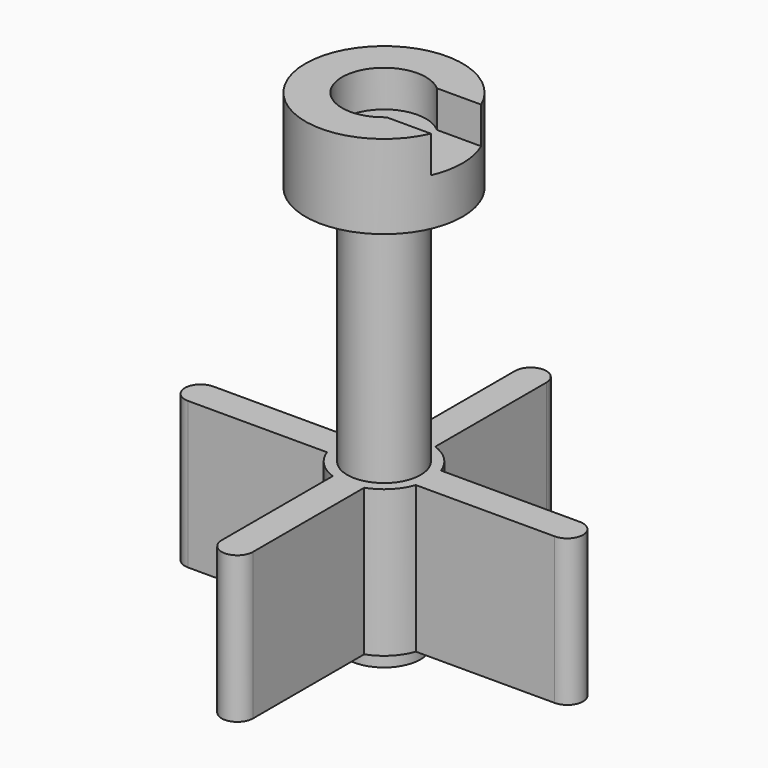
from build123d import *

# Parameters (mm, degrees)
SKETCH003_R        = 4.5
PAD001_DEPTH       = 14
POLARPATTERN_COUNT = 4
SKETCH004_R        = 3.5
PAD002_DEPTH       = 1.5
SKETCH005_R        = 3.5
PAD003_DEPTH       = 23
SKETCH011_R        = 7.5
PAD007_DEPTH       = 8
POCKET004_DEPTH    = 3.5


with BuildPart() as part:
    # Sketch003 → Pad001 (new body)
    with BuildSketch(Plane.XY):
        Circle(SKETCH003_R)
        with BuildLine():
            Line((-1.5, 17.5), (-1.5, -17.5))
            ThreePointArc((-1.5, -17.5), (0, -19), (1.5, -17.5))
            Line((1.5, -17.5), (1.5, 17.5))
            ThreePointArc((1.5, 17.5), (0, 19), (-1.5, 17.5))
        make_face()
    pad001 = extrude(amount=PAD001_DEPTH)

    # PolarPattern: Pad001 ×4 about axis
    polarpattern_axis = Axis((0, 0, 0), (0, 0, 1))
    for i in range(1, POLARPATTERN_COUNT):
        add(pad001.rotate(polarpattern_axis, i * 360 / POLARPATTERN_COUNT))

    # Sketch004 (on Face17 of MultiTransform) → Pad002 (join)
    with BuildSketch(Plane(origin=(0, 0, 0), x_dir=(1, 0, 0), z_dir=(0, 0, -1))):
        Circle(SKETCH004_R)
    extrude(amount=PAD002_DEPTH)

    # Sketch005 (on Face4 of Pad002) → Pad003 (join)
    with BuildSketch(Plane.XY.offset(14)):
        Circle(SKETCH005_R)
    extrude(amount=PAD003_DEPTH)

    # Sketch011 (on Face22 of Pad003) → Pad007 (join)
    with BuildSketch(Plane.XY.offset(37)):
        Circle(SKETCH011_R)
    extrude(amount=PAD007_DEPTH)

    # Sketch012 (on Face24 of Pad007) → Pocket004 (cut)
    with BuildSketch(Plane.XY.offset(45)):
        with BuildLine():
            ThreePointArc((2.645751, 3), (-4, 0), (2.645751, -3))
            Line((2.645751, -3), (10.145751, -3))
            Line((10.145751, -3), (10.145751, 3))
            Line((10.145751, 3), (2.645751, 3))
        make_face()
    extrude(amount=-POCKET004_DEPTH, mode=Mode.SUBTRACT)


solid = part.part
